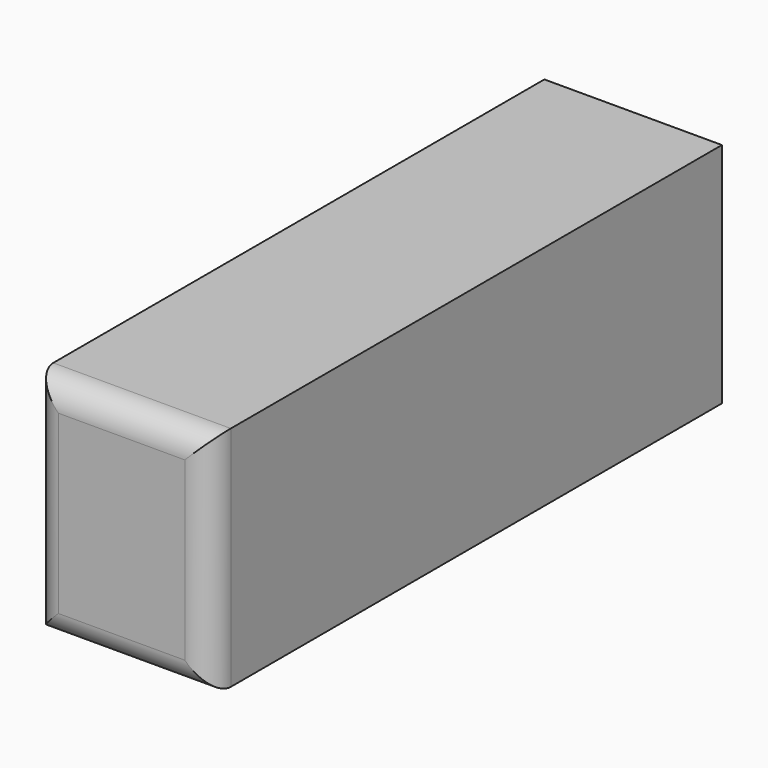
from build123d import *

# Parameters (mm, degrees)
F0_W     = 35.268522799
F0_H     = 45.1786872
F1_DEPTH = 76.2
F2_DEPTH = 50.8
F3_R     = 5.08


with BuildPart() as f1:
    # F0 (on Front) → F1 (new body)
    with BuildSketch(Plane.XZ):
        with Locations((-39.2034426332, 26.5242615715)):
            Rectangle(F0_W, F0_H)
    extrude(amount=F1_DEPTH)

    # F2 (add): a face of the model
    f2_faces = [f1.faces().sort_by_distance(p)[0] for p in [
        (-39.2034426332, -76.2, 26.5242615715),
    ]]
    extrude(f2_faces, amount=F2_DEPTH)

    # F3
    f3_edges = [f1.edges().sort_by_distance(p)[0] for p in [
        (-39.203443, -127, 49.113605),
        (-56.837704, -127, 26.524262),
        (-39.203443, -127, 3.934918),
        (-21.569181, -127, 26.524262),
    ]]
    fillet(f3_edges, radius=F3_R)


solid = f1.part
